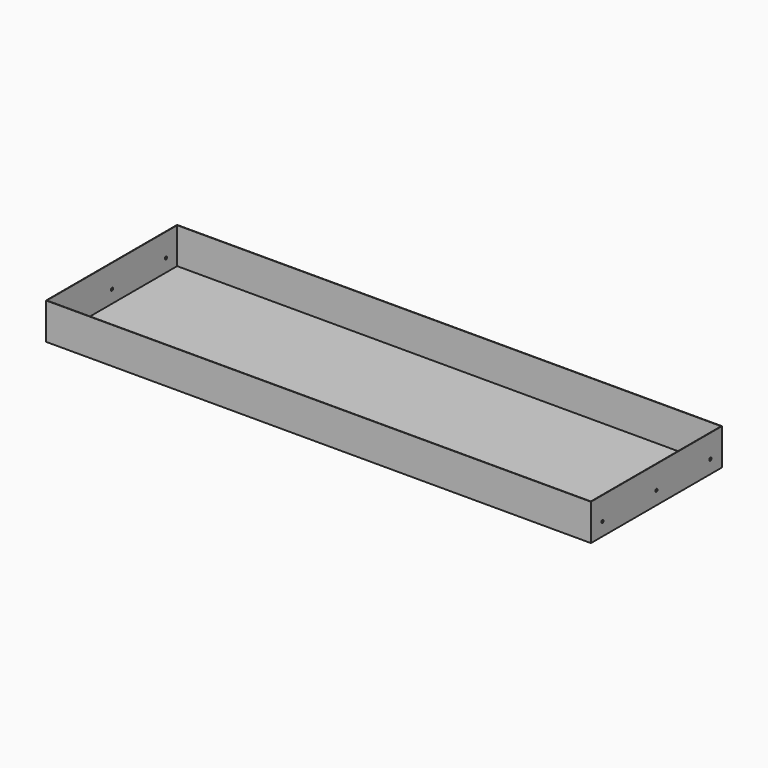
from build123d import *

# Parameters (mm, degrees)
F0_W     = 1026.16
F0_H     = 308.356
F1_DEPTH = 68.58
F2_T     = -0.762
F4_D     = 5.2197


with BuildPart() as f1:
    # F0 (on Top) → F1 (new body)
    with BuildSketch(Plane.XY):
        Rectangle(F0_W, F0_H)
    extrude(amount=F1_DEPTH)

    # F2
    f2_openings = [f1.faces().sort_by_distance(p)[0] for p in [
        (0, 0, 68.58),
    ]]
    offset(amount=F2_T, openings=f2_openings)

    # F4 (through all)
    with Locations(Plane(origin=(-513.08, 0, 0), x_dir=(0, -1, 0), z_dir=(-1, 0, 0))):
        with Locations((-127, 24.892), (0, 24.892), (127, 24.892)):
            Hole(F4_D / 2)


solid = f1.part
